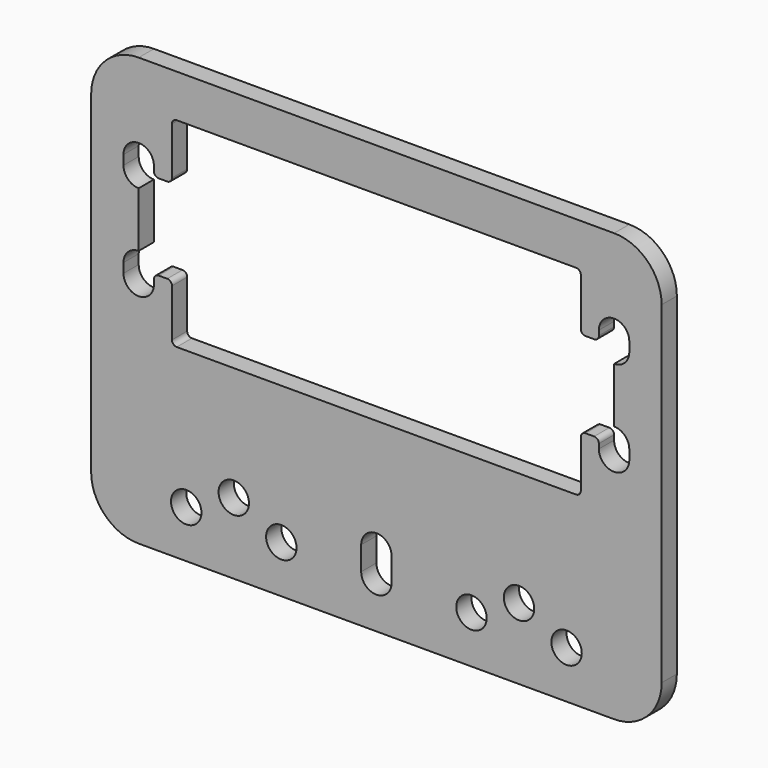
from build123d import *

# Parameters (mm, degrees)
F0_R     = 1.6
F1_DEPTH = 2
F3_DEPTH = 2.001


with BuildPart() as f1:
    # F0 (on Front) → F1 (new body)
    with BuildSketch(Plane.XZ):
        with BuildLine():
            ThreePointArc((0, 5), (1.464466, 1.464466), (5, 0))
            Line((5, 0), (55, 0))
            ThreePointArc((55, 0), (58.535534, 1.464466), (60, 5))
            Line((60, 5), (60, 40))
            ThreePointArc((60, 40), (58.535534, 43.535534), (55, 45))
            Line((55, 45), (5, 45))
            ThreePointArc((5, 45), (1.464466, 43.535534), (0, 40))
            Line((0, 40), (0, 5))
        make_face()
        with Locations((10, 5)):
            Circle(F0_R, mode=Mode.SUBTRACT)
        with Locations((20, 5)):
            Circle(F0_R, mode=Mode.SUBTRACT)
        with Locations((15, 7.5)):
            Circle(F0_R, mode=Mode.SUBTRACT)
        with Locations((40, 5)):
            Circle(F0_R, mode=Mode.SUBTRACT)
        with BuildLine():
            ThreePointArc((28.4, 7.5), (30, 9.1), (31.6, 7.5))
            Line((31.6, 7.5), (31.6, 5))
            ThreePointArc((31.6, 5), (30, 3.4), (28.4, 5))
            Line((28.4, 5), (28.4, 7.5))
        make_face(mode=Mode.SUBTRACT)
        with Locations((50, 5)):
            Circle(F0_R, mode=Mode.SUBTRACT)
        with Locations((45, 7.5)):
            Circle(F0_R, mode=Mode.SUBTRACT)
    extrude(amount=F1_DEPTH)

    # F2 (on Front) → F3 (cut, through all)
    with BuildSketch(Plane.XZ):
        with BuildLine():
            ThreePointArc((6.6, 35.5), (5, 37.1), (3.4, 35.5))
            Line((3.4, 35.5), (3.4, 34.5))
            ThreePointArc((3.4, 34.5), (3.868629, 33.368629), (5, 32.9))
            Line((5, 32.9), (5, 27.1))
            ThreePointArc((5, 27.1), (3.868629, 26.631371), (3.4, 25.5))
            Line((3.4, 25.5), (3.4, 24.5))
            ThreePointArc((3.4, 24.5), (5, 22.9), (6.6, 24.5))
            Line((6.6, 24.5), (6.6, 25))
            ThreePointArc((6.6, 25), (6.746447, 25.353553), (7.1, 25.5))
            Line((7.1, 25.5), (8, 25.5))
            ThreePointArc((8, 25.5), (8.353553, 25.353553), (8.5, 25))
            Line((8.5, 25), (8.5, 20))
            ThreePointArc((8.5, 20), (8.646447, 19.646447), (9, 19.5))
            Line((9, 19.5), (51, 19.5))
            ThreePointArc((51, 19.5), (51.353553, 19.646447), (51.5, 20))
            Line((51.5, 20), (51.5, 25))
            ThreePointArc((51.5, 25), (51.646447, 25.353553), (52, 25.5))
            Line((52, 25.5), (52.9, 25.5))
            ThreePointArc((52.9, 25.5), (53.253553, 25.353553), (53.4, 25))
            Line((53.4, 25), (53.4, 24.5))
            ThreePointArc((53.4, 24.5), (55, 22.9), (56.6, 24.5))
            Line((56.6, 24.5), (56.6, 25.5))
            ThreePointArc((56.6, 25.5), (56.131371, 26.631371), (55, 27.1))
            Line((55, 27.1), (55, 32.9))
            ThreePointArc((55, 32.9), (56.131371, 33.368629), (56.6, 34.5))
            Line((56.6, 34.5), (56.6, 35.5))
            ThreePointArc((56.6, 35.5), (55, 37.1), (53.4, 35.5))
            Line((53.4, 35.5), (53.4, 35))
            ThreePointArc((53.4, 35), (53.253553, 34.646447), (52.9, 34.5))
            Line((52.9, 34.5), (52, 34.5))
            ThreePointArc((52, 34.5), (51.646447, 34.646447), (51.5, 35))
            Line((51.5, 35), (51.5, 40))
            ThreePointArc((51.5, 40), (51.353553, 40.353553), (51, 40.5))
            Line((51, 40.5), (9, 40.5))
            ThreePointArc((9, 40.5), (8.646447, 40.353553), (8.5, 40))
            Line((8.5, 40), (8.5, 35))
            ThreePointArc((8.5, 35), (8.353553, 34.646447), (8, 34.5))
            Line((8, 34.5), (7.1, 34.5))
            ThreePointArc((7.1, 34.5), (6.746447, 34.646447), (6.6, 35))
            Line((6.6, 35), (6.6, 35.5))
        make_face()
    extrude(amount=F3_DEPTH, mode=Mode.SUBTRACT)


solid = f1.part
